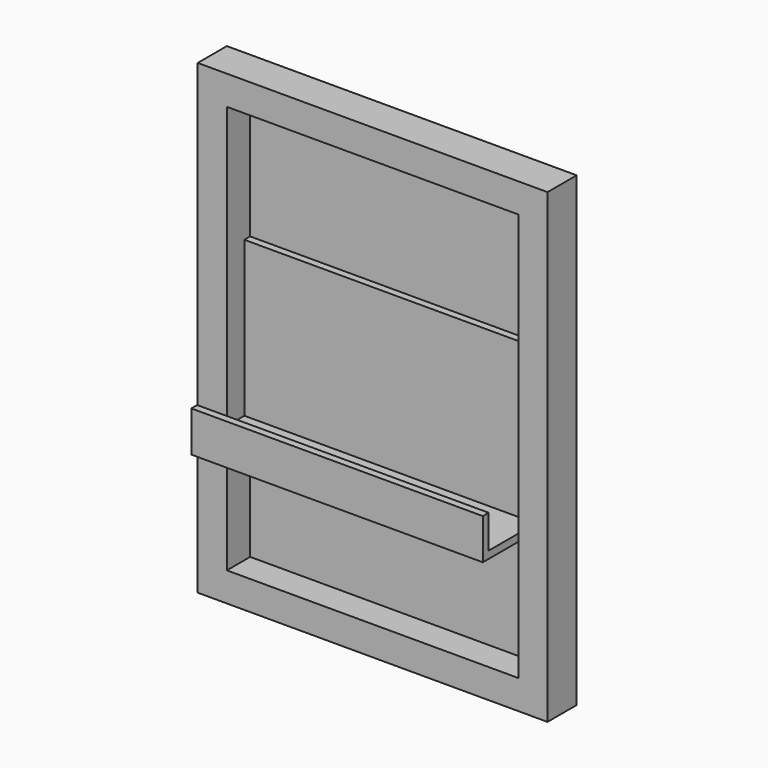
from build123d import *

# Parameters (mm, degrees)
F0_W     = 304.8
F0_H     = 406.4
F0_W_2   = 254.0000006139
F0_H_2   = 355.6000006139
F1_DEPTH = 25.4
F2_W     = 304.8
F2_H     = 406.4
F3_DEPTH = 6.35
F5_DEPTH = 254.0000006139


with BuildPart() as f1:
    # F0 (on Front) → F1 (new body)
    with BuildSketch(Plane.XZ):
        with Locations((152.4, 203.2)):
            Rectangle(F0_W, F0_H)
        with Locations((152.4, 203.2)):
            Rectangle(F0_W_2, F0_H_2, mode=Mode.SUBTRACT)
    extrude(amount=F1_DEPTH)

    # F2 (on face) → F3 (join)
    with BuildSketch(Plane(origin=(0, 0, 0), x_dir=(-1, 0, 0), z_dir=(0, 1, 0))):
        with Locations((-152.4, 203.2)):
            Rectangle(F2_W, F2_H)
    extrude(amount=F3_DEPTH)

    # F4 (on face) → F5 (join, through all)
    with BuildSketch(Plane.YZ.offset(25.399999693)):
        Polygon((-64.1043111682, 129.9178004265), (-25.4, 129.9178004265), (-25.4, 136.2678004265), (-57.7543111682, 136.2678004265), (-57.7543111682, 165.3573513031), (-64.1043111682, 165.3573513031), align=None)
        Polygon((0, 129.9178004265), (0, 271.2446153164), (-6.35, 271.2446153164), (-6.35, 136.2678004265), (-25.4, 136.2678004265), (-25.4, 129.9178004265), align=None)
    extrude(amount=F5_DEPTH)


solid = f1.part
